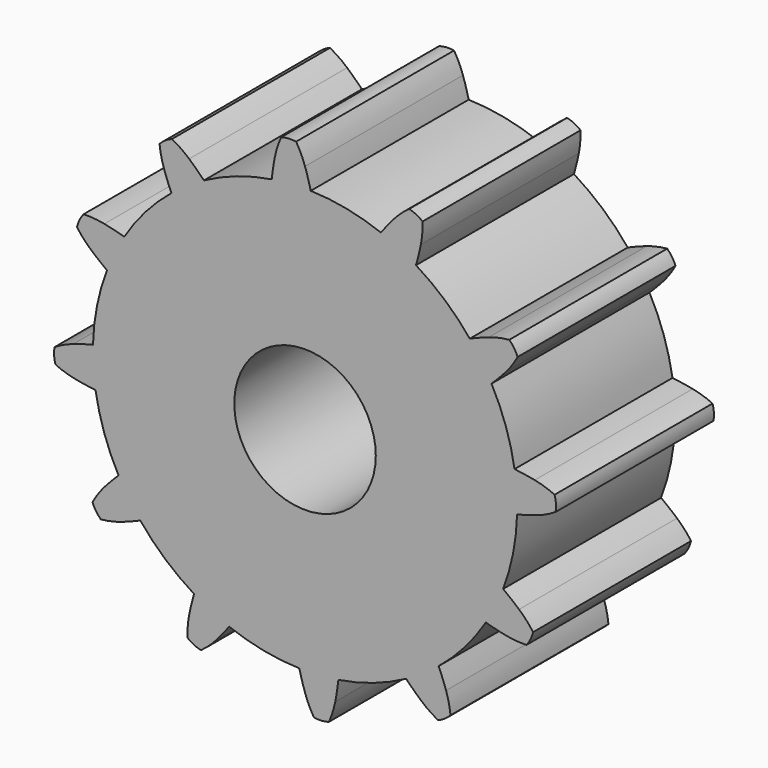
from build123d import *

# Parameters (mm, degrees)
F0_R     = 8.9594467425
F1_DEPTH = 25
F2_COUNT = 12


with BuildPart() as f1:
    # F0 (on Front) → F1 (new body)
    with BuildSketch(Plane.XZ):
        with BuildLine():
            ThreePointArc((-4.2208939589, 26.526788619), (-17.4371892527, -20.4311255494), (26.8605, 0))
            ThreePointArc((26.8605, 0), (19.2469341992, 18.7361144366), (0.7223429156, 26.8507854813))
            ThreePointArc((0.7223429156, 26.8507854813), (-1.7567607527, 26.8029896077), (-4.2208939589, 26.526788619))
        make_face()
        Circle(F0_R, mode=Mode.SUBTRACT)
        with BuildLine():
            ThreePointArc((-4.2208939589, 26.526788619), (-1.7567607527, 26.8029896077), (0.7223429156, 26.8507854813))
            ThreePointArc((0.7223429156, 26.8507854813), (0.386395857, 28.1012214188), (0, 29.337))
            ThreePointArc((0, 29.337), (-0.494567808, 30.5668335061), (-1.1305258579, 31.7298662349))
            ThreePointArc((-1.1305258579, 31.7298662349), (-2.0825651989, 31.7738048831), (-3.0207245668, 31.6059760661))
            ThreePointArc((-3.0207245668, 31.6059760661), (-3.4994356739, 30.3698840609), (-3.8292469012, 29.0860178981))
            ThreePointArc((-3.8292469012, 29.0860178981), (-4.0510356154, 27.8103767941), (-4.2208939589, 26.526788619))
        make_face()
    extrude(amount=F1_DEPTH)

    # F2: F1 ×12 about axis
    f2_axis = Axis((0, 0, 0), (0, 1, 0))


with BuildPart() as f1_1:
    add(f1.part)
    for i in range(1, F2_COUNT):
        add(f1.part.rotate(f2_axis, i * 360 / F2_COUNT))


solid = f1_1.part
